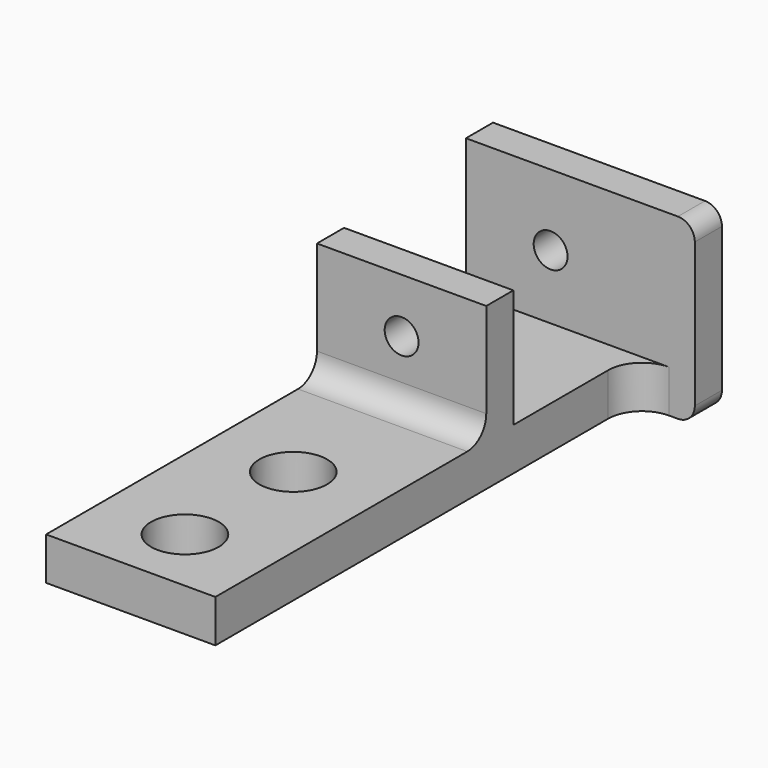
from build123d import *

# Parameters (mm, degrees)
F1_DEPTH      = 54.102
F1_DEPTH_BACK = 31.75
F3_DEPTH      = 66.802
F4_R          = 6.35
F6_D          = 25.4
F8_D          = 12.7


with BuildPart() as f1:
    # F0 (on Right) → F1 (new body, two sides)
    with BuildSketch(Plane.YZ) as f1_sk:
        with BuildLine():
            Line((-209.55, 0), (0, 0))
            Line((0, 0), (0, 66.802))
            Line((0, 66.802), (-12.7, 66.802))
            Line((-12.7, 66.802), (-12.7, 16.002))
            Line((-12.7, 16.002), (-69.85, 16.002))
            Line((-69.85, 16.002), (-69.85, 60.452))
            Line((-69.85, 60.452), (-82.55, 60.452))
            Line((-82.55, 60.452), (-82.55, 24.892))
            ThreePointArc((-82.55, 24.892), (-85.153821, 18.605821), (-91.44, 16.002))
            Line((-91.44, 16.002), (-209.55, 16.002))
            Line((-209.55, 16.002), (-209.55, 0))
        make_face()
    extrude(amount=F1_DEPTH)
    extrude(f1_sk.sketch, amount=-F1_DEPTH_BACK)

    # F2 (on Top) → F3 (cut)
    with BuildSketch(Plane.XY):
        with BuildLine():
            Line((31.75, -209.55), (54.102, -209.55))
            Line((54.102, -209.55), (54.102, -12.7))
            Line((54.102, -12.7), (44.45, -12.7))
            ThreePointArc((44.45, -12.7), (35.469744, -16.419744), (31.75, -25.4))
            Line((31.75, -25.4), (31.75, -209.55))
        make_face()
    extrude(amount=F3_DEPTH, mode=Mode.SUBTRACT)

    # F4
    f4_edges = [f1.edges().sort_by_distance(p)[0] for p in [
        (54.102, -6.35, 0),
        (54.102, -6.35, 66.802),
    ]]
    fillet(f4_edges, radius=F4_R)

    # F6 (through all)
    with Locations(Plane.XY.offset(16.002)):
        with Locations((0, -133.35), (0, -184.15)):
            Hole(F6_D / 2)

    # F8 (through all)
    with Locations(Plane.XZ.offset(82.55)):
        with Locations((0, 40.132)):
            Hole(F8_D / 2)


solid = f1.part
